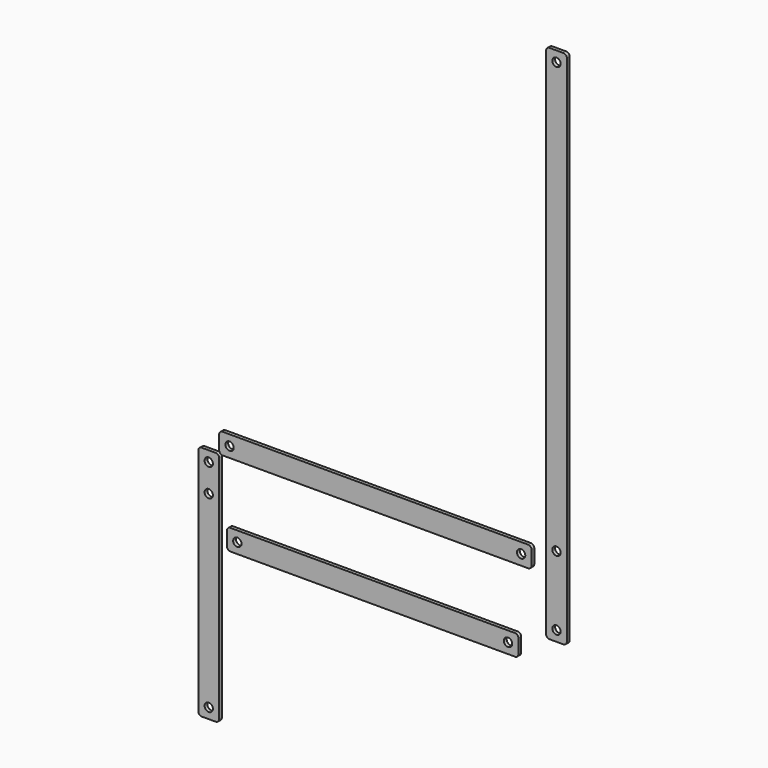
from build123d import *

# Parameters (mm, degrees)
F0_R     = 6
F1_DEPTH = 5
F2_R     = 6
F3_DEPTH = 5
F4_R     = 6
F5_DEPTH = 5
F7_R     = 6
F8_DEPTH = 5


with BuildPart() as f1:
    # F0 (on Front) → F1 (new body)
    with BuildSketch(Plane.XZ):
        with BuildLine():
            ThreePointArc((0, 5), (1.464466, 1.464466), (5, 0))
            Line((5, 0), (445, 0))
            ThreePointArc((445, 0), (448.535534, 1.464466), (450, 5))
            Line((450, 5), (450, 25))
            ThreePointArc((450, 25), (448.535534, 28.535534), (445, 30))
            Line((445, 30), (5, 30))
            ThreePointArc((5, 30), (1.464466, 28.535534), (0, 25))
            Line((0, 25), (0, 5))
        make_face()
        with Locations((15, 15)):
            Circle(F0_R, mode=Mode.SUBTRACT)
        with Locations((435, 15)):
            Circle(F0_R, mode=Mode.SUBTRACT)
    extrude(amount=F1_DEPTH)


with BuildPart() as f3:
    # F2 (on Front) → F3 (new body)
    with BuildSketch(Plane.XZ):
        with BuildLine():
            ThreePointArc((0, -5), (-1.464466, -1.464466), (-5, 0))
            Line((-5, 0), (-25, 0))
            ThreePointArc((-25, 0), (-28.535534, -1.464466), (-30, -5))
            Line((-30, -5), (-30, -100))
            Line((-30, -100), (0, -100))
            Line((0, -100), (0, -5))
        make_face()
        with Locations((-15, -55)):
            Circle(F2_R, mode=Mode.SUBTRACT)
        with Locations((-15, -15)):
            Circle(F2_R, mode=Mode.SUBTRACT)
        Polygon((0, -190.41208), (0, -100), (-30, -100), align=None)
        with BuildLine():
            Line((0, -190.41208), (-30, -100))
            Line((-30, -100), (-30, -335.983152))
            ThreePointArc((-30, -335.983152), (-28.535534, -339.518686), (-25, -340.983152))
            Line((-25, -340.983152), (-5, -340.983152))
            ThreePointArc((-5, -340.983152), (-1.464466, -339.518686), (0, -335.983152))
            Line((0, -335.983152), (0, -190.41208))
        make_face()
        with Locations((-15, -325.983152)):
            Circle(F2_R, mode=Mode.SUBTRACT)
    extrude(amount=F3_DEPTH)


with BuildPart() as f5:
    # F4 (on Front) → F5 (new body)
    with BuildSketch(Plane.XZ):
        with BuildLine():
            ThreePointArc((470.918804, 5), (472.383271, 1.464466), (475.918804, 0))
            Line((475.918804, 0), (495.918804, 0))
            ThreePointArc((495.918804, 0), (499.454338, 1.464466), (500.918804, 5))
            Line((500.918804, 5), (500.918804, 745))
            ThreePointArc((500.918804, 745), (499.454338, 748.535534), (495.918804, 750))
            Line((495.918804, 750), (475.918804, 750))
            ThreePointArc((475.918804, 750), (472.383271, 748.535534), (470.918804, 745))
            Line((470.918804, 745), (470.918804, 5))
        make_face()
        with Locations((485.918804, 15)):
            Circle(F4_R, mode=Mode.SUBTRACT)
        with Locations((485.918804, 115)):
            Circle(F4_R, mode=Mode.SUBTRACT)
        with Locations((485.918804, 735)):
            Circle(F4_R, mode=Mode.SUBTRACT)
    extrude(amount=F5_DEPTH)


with BuildPart() as f5_1:
    # F6: moved
    add(f5.part.moved(Location((0, 0, -80))))


with BuildPart() as f8:
    # F7 (on Front) → F8 (new body)
    with BuildSketch(Plane.XZ):
        with BuildLine():
            Line((426.145162, -88.275541), (16.145162, -88.275541))
            ThreePointArc((16.145162, -88.275541), (12.609628, -89.740007), (11.145162, -93.275541))
            Line((11.145162, -93.275541), (11.145162, -113.275541))
            ThreePointArc((11.145162, -113.275541), (12.609628, -116.811075), (16.145162, -118.275541))
            Line((16.145162, -118.275541), (426.145162, -118.275541))
            ThreePointArc((426.145162, -118.275541), (429.680696, -116.811075), (431.145162, -113.275541))
            Line((431.145162, -113.275541), (431.145162, -93.275541))
            ThreePointArc((431.145162, -93.275541), (429.680696, -89.740007), (426.145162, -88.275541))
        make_face()
        with Locations((26.145162, -103.275541)):
            Circle(F7_R, mode=Mode.SUBTRACT)
        with Locations((416.145162, -103.275541)):
            Circle(F7_R, mode=Mode.SUBTRACT)
    extrude(amount=F8_DEPTH)


solid = Compound([f1.part, f3.part, f5_1.part, f8.part])
